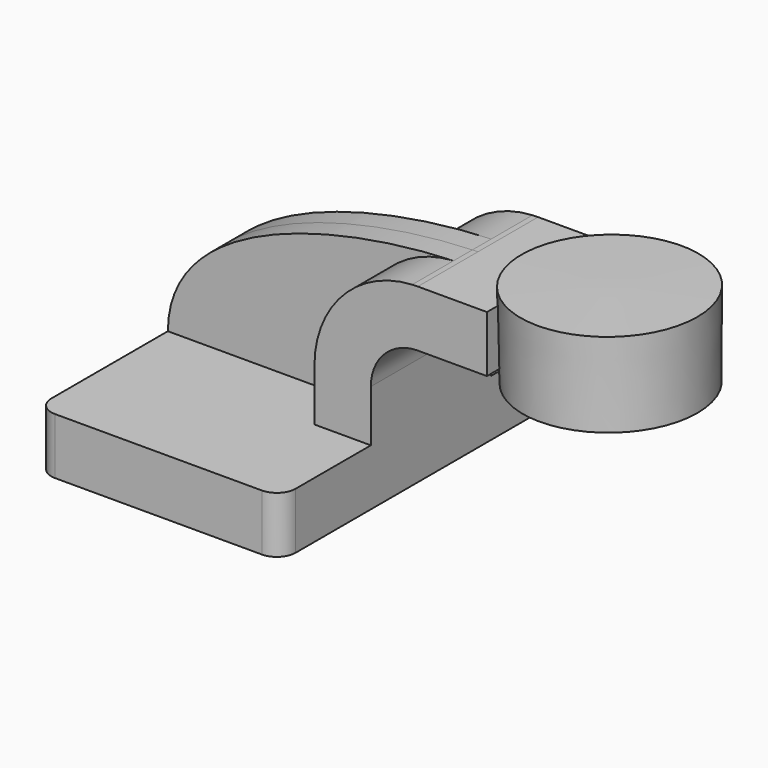
from build123d import *

# Parameters (mm, degrees)
F1_DEPTH = 63.5
F2_DEPTH = 25.4
F3_DEPTH = 7.9375
F5_R     = 6.35


with BuildPart() as f1:
    # F0 (on Front) → F1 (new body, symmetric)
    with BuildSketch(Plane.XZ):
        Polygon((22.225, 9.525), (-41.275, 9.525), (-41.275, -9.525), (41.275, -9.525), (41.275, 9.525), align=None)
    extrude(amount=F1_DEPTH, both=True)

    # F0 (on Front) → F2 (join, symmetric)
    with BuildSketch(Plane.XZ):
        with BuildLine():
            Line((22.225, 27.0002), (22.225, 9.525))
            Line((22.225, 9.525), (41.275, 9.525))
            Line((41.275, 9.525), (41.275, 27.0002))
            ThreePointArc((41.275, 27.0002), (45.9246798487, 38.2255201513), (57.15, 42.8752))
            Line((57.15, 42.8752), (80.509888177, 42.8752))
            Line((80.509888177, 42.8752), (80.509888177, 61.9252))
            Line((80.509888177, 61.9252), (57.15, 61.9252))
            add(Edge.make_bspline(
                [(55.2606607544, 61.8740587228), (55.8984719216, 61.8948615926), (56.5284123731, 61.9118838852), (57.15, 61.9252)],
                knots=[109.5520326142, 109.5520326142, 109.5520326142, 109.5520326142, 111.5045361635, 111.5045361635, 111.5045361635, 111.5045361635], degree=3))
            ThreePointArc((55.2606607544, 61.8740587228), (31.7951109433, 51.0186351265), (22.225, 27.0002))
        make_face()
    extrude(amount=F2_DEPTH, both=True)

    # F0 (on Front) → F3 (join, symmetric)
    with BuildSketch(Plane.XZ):
        with BuildLine():
            add(Edge.make_bspline(
                [(-41.275, 9.525), (-41.0908827839, 47.6377500775), (19.4740370552, 60.7068410375), (55.2606607544, 61.8740587228)],
                knots=[0, 0, 0, 0, 109.5520326142, 109.5520326142, 109.5520326142, 109.5520326142], degree=3))
            Line((-41.275, 9.525), (22.225, 9.525))
            Line((22.225, 9.525), (22.225, 27.0002))
            ThreePointArc((22.225, 27.0002), (31.7951109433, 51.0186351265), (55.2606607544, 61.8740587228))
        make_face()
    extrude(amount=F3_DEPTH, both=True)

    # F0 (on Front) → F4 (revolve)
    with BuildSketch(Plane.XZ):
        Polygon((131.309888177, 66.675), (101.6, 66.675), (101.9684821367, 38.1), (131.309888177, 38.1), align=None)
    revolve(axis=Axis((101.7842410684, 0, 52.3875), (-0.0128941908, 0, 0.9999168665)))

    # F5
    f5_edges = [f1.edges().sort_by_distance(p)[0] for p in [
        (41.275, -63.5, 0),
        (-41.275, -63.5, 0),
        (-41.275, 63.5, 0),
        (41.275, 63.5, 0),
    ]]
    fillet(f5_edges, radius=F5_R)


solid = f1.part
